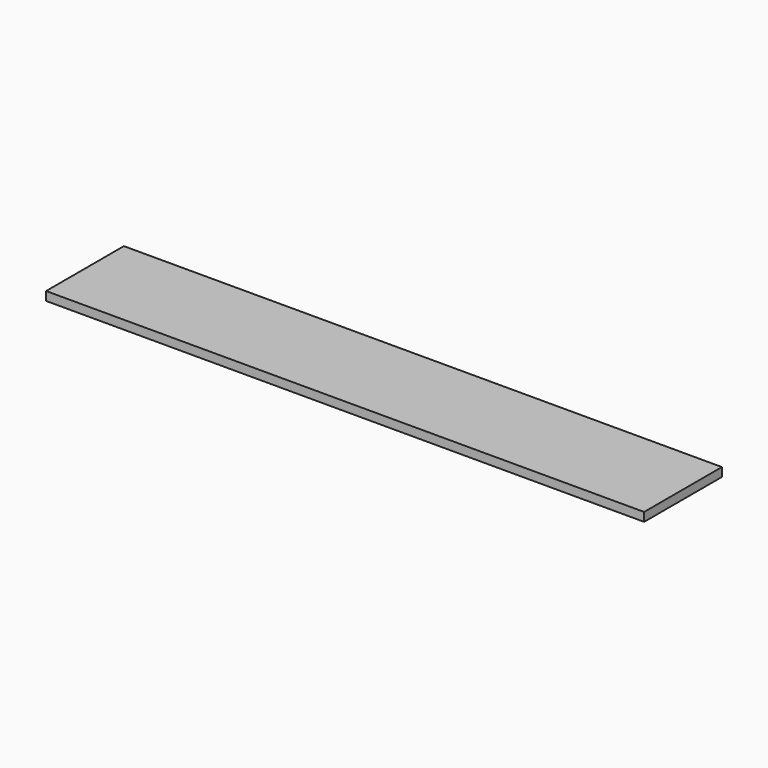
from build123d import *

# Parameters (mm, degrees)
SKETCH_W  = 1230
SKETCH_H  = 200
PAD_DEPTH = 18


with BuildPart() as part:
    # Sketch → Pad (new body)
    with BuildSketch(Plane.XY):
        Rectangle(SKETCH_W, SKETCH_H)
    extrude(amount=PAD_DEPTH)


solid = part.part
